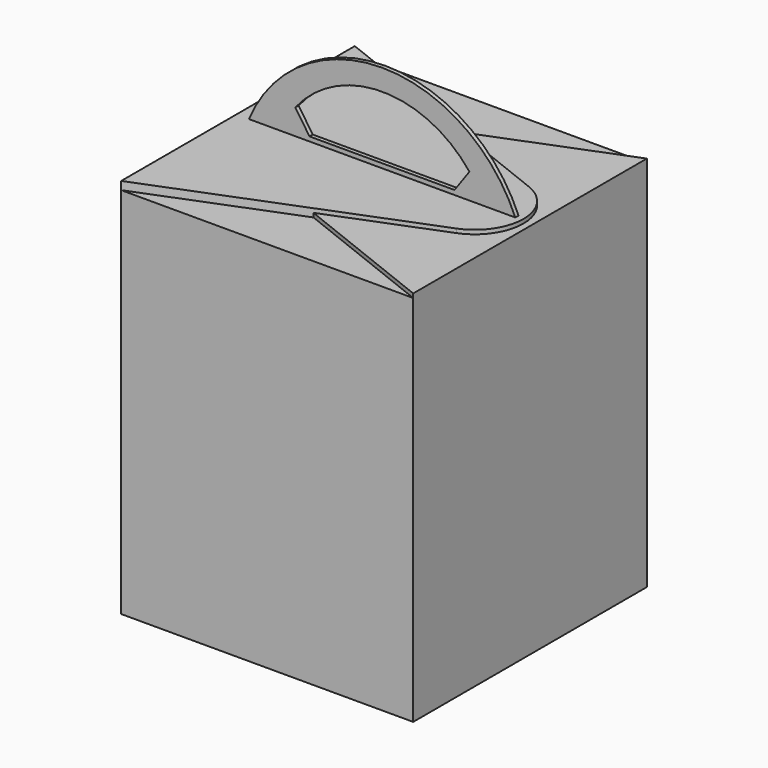
from build123d import *

# Parameters (mm, degrees)
F0_W      = 182.88
F0_H      = 182.88
F1_DEPTH  = 231.14
F2_T      = -2.54
F3_W      = 182.88
F3_H      = 182.88
F4_DEPTH  = 2.54
F6_DEPTH  = 2.54
F8_DEPTH  = 5.08
F10_DEPTH = 1.27


with BuildPart() as f1:
    # F0 (on Top) → F1 (new body)
    with BuildSketch(Plane.XY):
        Rectangle(F0_W, F0_H)
    extrude(amount=F1_DEPTH)

    # F2
    f2_openings = [f1.faces().sort_by_distance(p)[0] for p in [
        (0, 0, 231.14),
    ]]
    offset(amount=F2_T, openings=f2_openings)

    # F3 (on face) → F4 (join)
    with BuildSketch(Plane.XY.offset(231.14)):
        Rectangle(F3_W, F3_H)
    extrude(amount=F4_DEPTH)

    # F5 (on face) → F6 (join)
    with BuildSketch(Plane.XY.offset(233.68)):
        with BuildLine():
            Line((91.44, -91.44), (91.44, 91.44))
            Line((91.44, 91.44), (-68.0558882158, 28.342725541))
            ThreePointArc((-68.0558882158, 28.342725541), (-87.3233814083, 0), (-68.0558882158, -28.342725541))
            Line((-68.0558882158, -28.342725541), (91.44, -91.44))
        make_face()
    extrude(amount=F6_DEPTH)

    # F7 (on face) → F8 (join)
    with BuildSketch(Plane.XY.offset(233.68)):
        with BuildLine():
            Line((68.0558882158, 28.342725541), (-91.44, 91.44))
            Line((-91.44, 91.44), (-91.44, -91.44))
            Line((-91.44, -91.44), (68.0558882158, -28.342725541))
            ThreePointArc((68.0558882158, -28.342725541), (87.3233814083, 0), (68.0558882158, 28.342725541))
        make_face()
    extrude(amount=F8_DEPTH)

    # F9 (on Front) → F10 (join, symmetric)
    with BuildSketch(Plane.XZ):
        with BuildLine():
            Line((83.2395926118, 236.8696480989), (83.2395926118, 238.76))
            ThreePointArc((83.2395926118, 238.76), (-0.1585371792, 294.2423028387), (-83.5566669703, 238.76))
            Line((-83.5566669703, 238.76), (-83.6300104856, 236.8696480989))
            Line((-83.6300104856, 236.8696480989), (83.2395926118, 236.8696480989))
        make_face()
        with BuildLine():
            ThreePointArc((-54.5130875391, 254.6497191946), (0, 281.0305954441), (54.5130875391, 254.6497191946))
            Line((54.5130875391, 254.6497191946), (45.1730415225, 241.5446043015))
            Line((45.1730415225, 241.5446043015), (-45.6402897835, 241.5446043015))
            Line((-45.6402897835, 241.5446043015), (-54.5130875391, 254.6497191946))
        make_face(mode=Mode.SUBTRACT)
    extrude(amount=F10_DEPTH, both=True)


solid = f1.part
